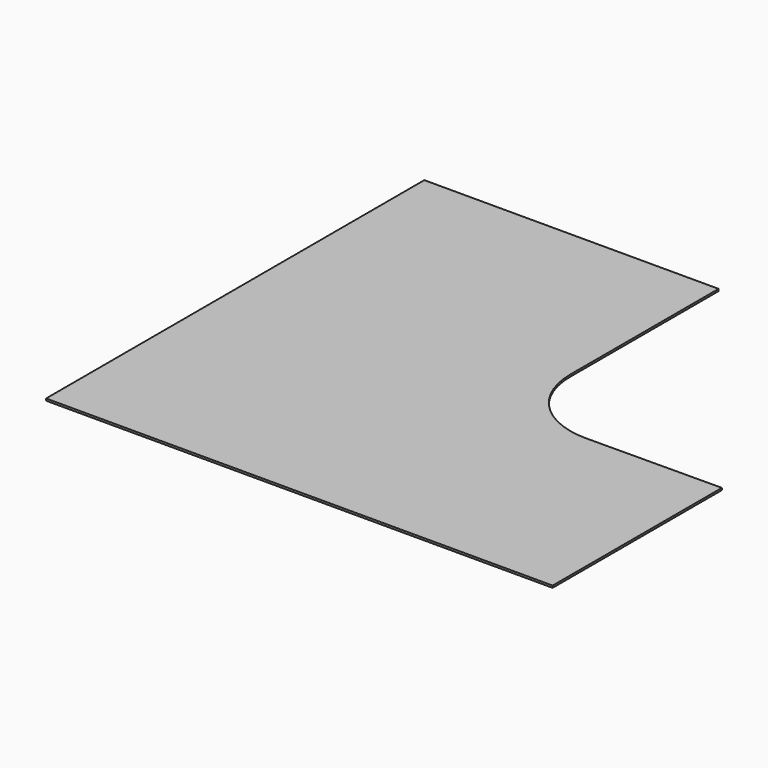
from build123d import *

# Parameters (mm, degrees)
F1_DEPTH = 25
F1_TAPER = -3


with BuildPart() as f1:
    # F0 (on Top) → F1 (new body)
    with BuildSketch(Plane.XY):
        with BuildLine():
            Line((-2943.5140639544, 4599.4165127277), (-2943.5140639544, -1000.5834872723))
            Line((-2943.5140639544, -1000.5834872723), (3056.4859360456, -1000.5834872723))
            Line((3056.4859360456, -1000.5834872723), (3056.4859360456, 1504.4165127277))
            Line((3056.4859360456, 1504.4165127277), (2766.4859360456, 1502.6064564302))
            Line((2766.4859360456, 1502.6064564302), (2476.4859360456, 1500.7964001326))
            Line((2476.4859360456, 1500.7964001326), (2186.4859360456, 1498.986343835))
            Line((2186.4859360456, 1498.986343835), (1896.4859360456, 1497.1762875374))
            Line((1896.4859360456, 1497.1762875374), (1457.1656572439, 1494.4342377536))
            ThreePointArc((1457.1656572439, 1494.4342377536), (810.0299930108, 1758.9443807614), (541.4859360456, 2404.4165127277))
            Line((541.4859360456, 2404.4165127277), (541.4859360456, 2855.2801705543))
            Line((541.4859360456, 2855.2801705543), (541.4859360456, 3145.2861896182))
            Line((541.4859360456, 3145.2861896182), (541.4859360456, 3435.292208682))
            Line((541.4859360456, 3435.292208682), (541.4859360456, 3725.2982277458))
            Line((541.4859360456, 3725.2982277458), (541.4859360456, 4015.3042468096))
            Line((541.4859360456, 4015.3042468096), (541.4859360456, 4305.3102658735))
            Line((541.4859360456, 4305.3102658735), (541.4859360456, 4599.4165127277))
            Line((541.4859360456, 4599.4165127277), (-2943.5140639544, 4599.4165127277))
        make_face()
    extrude(amount=F1_DEPTH, taper=F1_TAPER)


solid = f1.part
